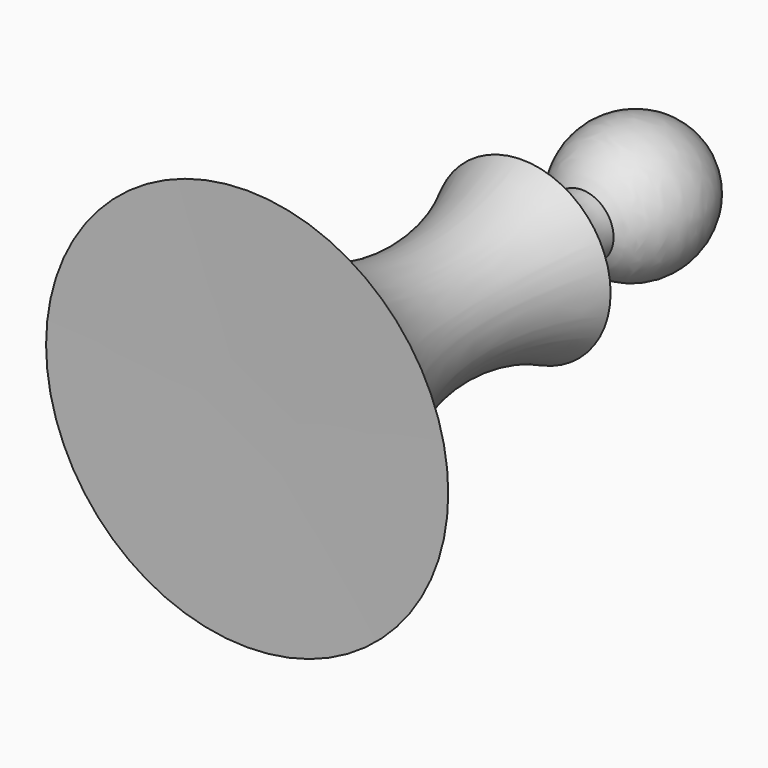
from build123d import *


with BuildPart() as f1:
    # F0 (on Top) → F1 (revolve)
    with BuildSketch(Plane.XY):
        with BuildLine():
            ThreePointArc((4.905007, 16.481074), (10.234983, 28.977634), (0, 37.911713))
            Line((0, 37.911713), (0, 14.885581))
            ThreePointArc((0, 14.885581), (2.542632, 15.406248), (4.905007, 16.481074))
        make_face()
        with BuildLine():
            ThreePointArc((4.905007, 16.481074), (2.542632, 15.406248), (0, 14.885581))
            Line((0, 14.885581), (0, -48.145551))
            Line((0, -48.145551), (31.166684, -48.37814))
            ThreePointArc((31.166684, -48.37814), (11.356296, -25.378465), (13.722646, 4.884331))
            ThreePointArc((13.722646, 4.884331), (7.106698, 9.004502), (4.905007, 16.481074))
        make_face()
    revolve(axis=Axis((0, -5.116919, 0), (0, -1, 0)))


solid = f1.part
